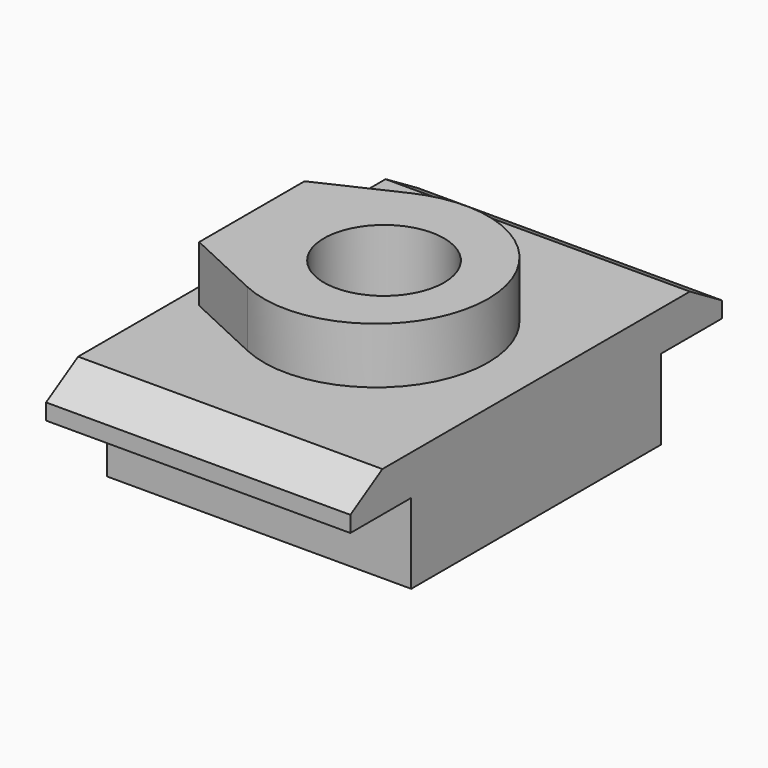
from build123d import *

# Parameters (mm, degrees)
F1_DEPTH = 1.9
F2_SIZE2 = 0.5
F2_SIZE  = 0.3
F3_SIZE2 = 0.5
F3_SIZE  = 0.3
F5_DEPTH = 0.7
F6_R     = 0.75
F7_DEPTH = 2.2


with BuildPart() as f1:
    # F0 (on Right) → F1 (new body, symmetric)
    with BuildSketch(Plane.YZ):
        Polygon((2.9, 0), (-2.9, 0), (-2.9, -0.5), (-1.95, -0.5), (-1.95, -1.5), (1.95, -1.5), (1.95, -0.5), (2.9, -0.5), align=None)
    extrude(amount=F1_DEPTH, both=True)

    # F2
    f2_edges = [f1.edges().sort_by_distance(p)[0] for p in [
        (0, 2.9, 0),
    ]]
    f2_side = f1.faces().sort_by_distance((0, 2.9, -0.25))[0]
    chamfer(f2_edges, length=F2_SIZE, length2=F2_SIZE2, reference=f2_side)

    # F3
    f3_edges = [f1.edges().sort_by_distance(p)[0] for p in [
        (0, -2.9, 0),
    ]]
    f3_side = f1.faces().sort_by_distance((0, -2.9, -0.25))[0]
    chamfer(f3_edges, length=F3_SIZE, length2=F3_SIZE2, reference=f3_side)

    # F4 (on face) → F5 (join)
    with BuildSketch(Plane.XY):
        with BuildLine():
            Line((-1.65, -0.8219522164), (-0.6916655664, -1.2688309019))
            ThreePointArc((-0.6916655664, -1.2688309019), (1.3, 0), (-0.6916655664, 1.2688309019))
            Line((-0.6916655664, 1.2688309019), (-1.65, 0.8219522164))
            Line((-1.65, 0.8219522164), (-1.65, -0.8219522164))
        make_face()
    extrude(amount=F5_DEPTH)

    # F6 (on face) → F7 (cut, through all)
    with BuildSketch(Plane.XY.offset(0.7)):
        Circle(F6_R)
    extrude(amount=-F7_DEPTH, mode=Mode.SUBTRACT)


solid = f1.part
